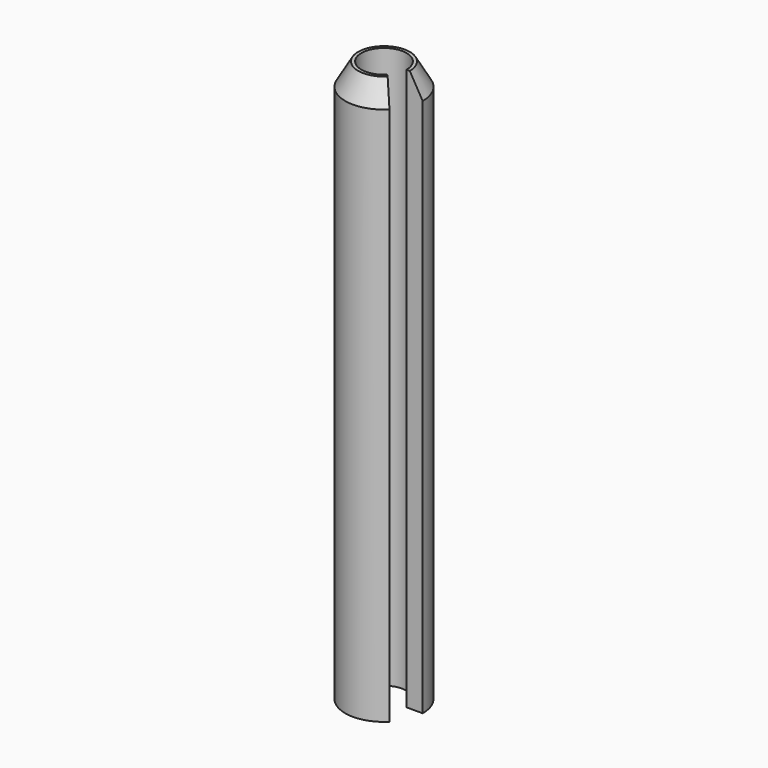
from build123d import *

# Parameters (mm, degrees)
F1_DEPTH = 21.75
F2_SIZE2 = 1.7320508076
F2_SIZE  = 1


with BuildPart() as f1:
    # F0 (on Top) → F1 (new body, symmetric)
    with BuildSketch(Plane.XY):
        with BuildLine():
            Line((1.75, 0), (3, 0))
            ThreePointArc((3, 0), (-2.7716385975, 1.1480502971), (2.1213203436, -2.1213203436))
            Line((2.1213203436, -2.1213203436), (1.2374368671, -1.2374368671))
            ThreePointArc((1.2374368671, -1.2374368671), (-1.6167891819, 0.6696960066), (1.75, 0))
        make_face()
    extrude(amount=F1_DEPTH, both=True)

    # F2
    f2_edges = [f1.edges().sort_by_distance(p)[0] for p in [
        (-2.771639, 1.14805, 21.75),
    ]]
    f2_side = f1.faces().sort_by_distance((-1.695183, 0.702168, 21.75))[0]
    chamfer(f2_edges, length=F2_SIZE, length2=F2_SIZE2, reference=f2_side)


solid = f1.part
